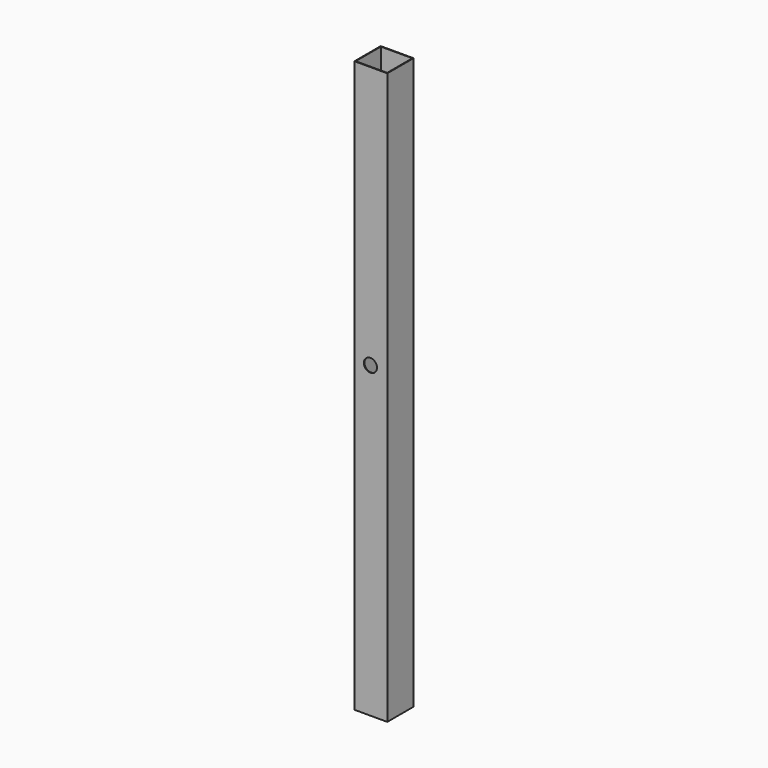
from build123d import *

# Parameters (mm, degrees)
F0_W     = 25
F0_H     = 25
F0_W_2   = 24
F0_H_2   = 24
F1_DEPTH = 435
F3_DEPTH = 25.001


with BuildPart() as f1:
    # F0 (on Top) → F1 (new body)
    with BuildSketch(Plane.XY):
        with Locations((12.5, -12.5)):
            Rectangle(F0_W, F0_H)
        with Locations((12.5, -12.5)):
            Rectangle(F0_W_2, F0_H_2, mode=Mode.SUBTRACT)
    extrude(amount=F1_DEPTH)

    # F2 (on face) → F3 (cut, through all)
    with BuildSketch(Plane.XZ.offset(25)):
        with BuildLine():
            ThreePointArc((12.348425, 230.002893), (15.773518, 231.525113), (17.17836, 235))
            ThreePointArc((17.17836, 235), (15.776087, 238.472228), (12.355814, 239.99685))
            Line((12.355814, 239.99685), (12.348425, 230.002893))
        make_face()
        with BuildLine():
            Line((12.348425, 230.002893), (12.355814, 239.99685))
            ThreePointArc((12.355814, 239.99685), (7.178362, 235.003697), (12.348425, 230.002893))
        make_face()
    extrude(amount=-F3_DEPTH, mode=Mode.SUBTRACT)


solid = f1.part
